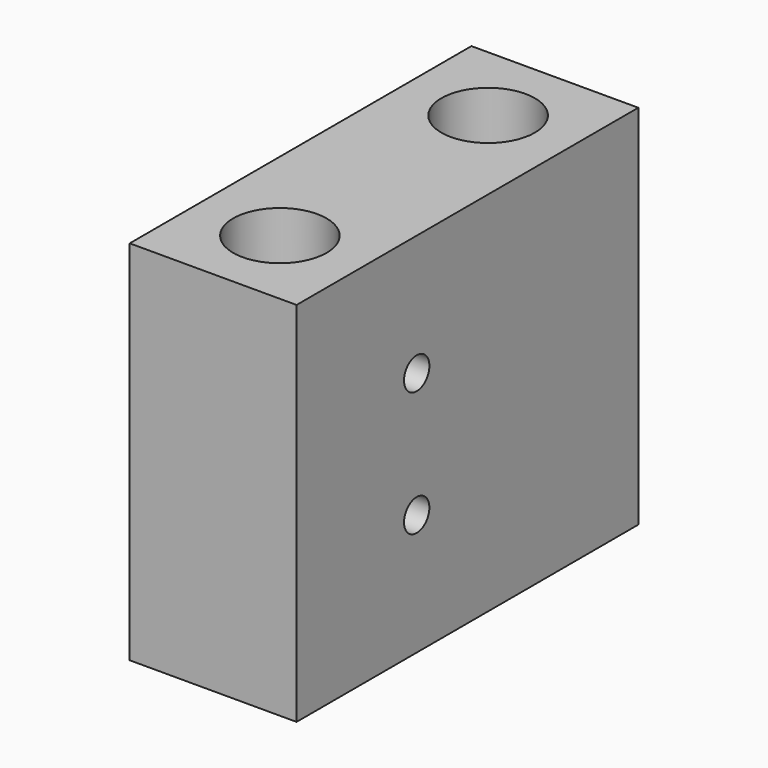
from build123d import *

# Parameters (mm, degrees)
F0_W     = 32.512
F0_H     = 27.94
F1_DEPTH = 12.7
F2_R     = 1.2065
F3_DEPTH = 12.701
F5_DEPTH = 1.651
F6_R     = 1.905
F7_DEPTH = 27.941
F8_R     = 3.556
F9_DEPTH = 18.415


with BuildPart() as f1:
    # F0 (on Right) → F1 (new body)
    with BuildSketch(Plane.YZ):
        with Locations((0, 4.445)):
            Rectangle(F0_W, F0_H)
    extrude(amount=F1_DEPTH)

    # F2 (on face) → F3 (cut, through all)
    with BuildSketch(Plane(origin=(0, 0, 0), x_dir=(0, -1, 0), z_dir=(-1, 0, 0))):
        with Locations((4.826, -0.3048)):
            Circle(F2_R)
        with Locations((4.826, 9.1948)):
            Circle(F2_R)
    extrude(amount=-F3_DEPTH, mode=Mode.SUBTRACT)

    # F4 (on face) → F5 (cut)
    with BuildSketch(Plane(origin=(0, 0, 0), x_dir=(0, -1, 0), z_dir=(-1, 0, 0))):
        Polygon((7.754274, 9.360161), (6.14693, 11.81344), (3.218656, 11.648079), (1.897726, 9.029439), (3.50507, 6.57616), (6.433344, 6.741521), align=None)
        Polygon((6.29247, 2.2352), (3.35953, 2.2352), (1.893061, -0.3048), (3.35953, -2.8448), (6.29247, -2.8448), (7.758939, -0.3048), align=None)
    extrude(amount=-F5_DEPTH, mode=Mode.SUBTRACT)

    # F6 (on face) → F7 (cut, through all)
    with BuildSketch(Plane.XY.offset(18.415)):
        with Locations((6.35, -9.906)):
            Circle(F6_R)
        with Locations((6.35, 9.906)):
            Circle(F6_R)
    extrude(amount=-F7_DEPTH, mode=Mode.SUBTRACT)

    # F8 (on face) → F9 (cut)
    with BuildSketch(Plane.XY.offset(18.415)):
        with Locations((6.35, 9.906)):
            Circle(F8_R)
        with Locations((6.35, -9.906)):
            Circle(F8_R)
    extrude(amount=-F9_DEPTH, mode=Mode.SUBTRACT)


solid = f1.part
